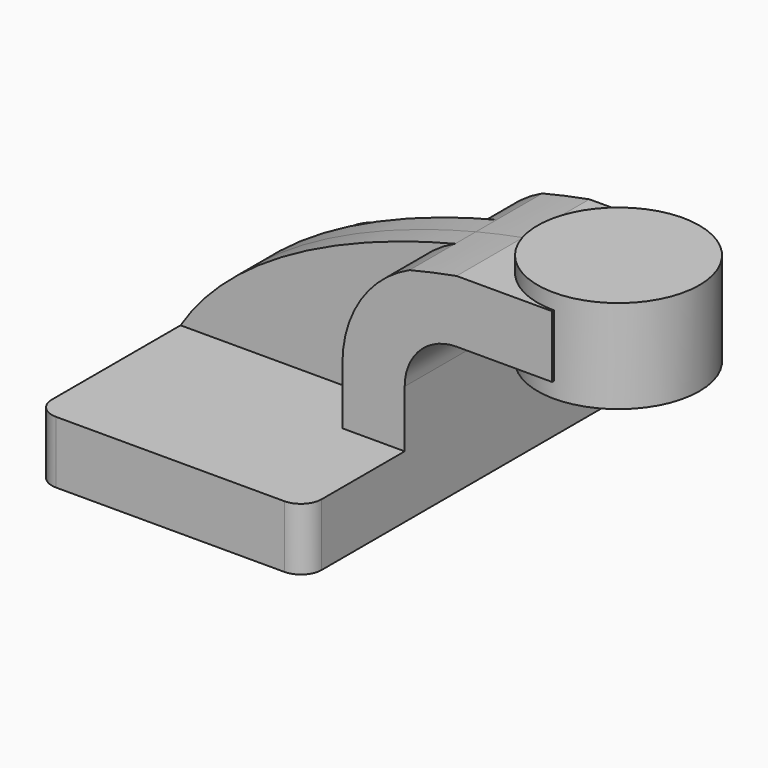
from build123d import *

# Parameters (mm, degrees)
F1_DEPTH = 63.5
F0_W     = 26.0565099983
F0_H     = 19.05
F2_DEPTH = 25.4
F3_DEPTH = 7.9375
F5_R     = 6.35


with BuildPart() as f1:
    # F0 (on Front) → F1 (new body, symmetric)
    with BuildSketch(Plane.XZ):
        Polygon((-41.275, -9.525), (41.275, -9.525), (41.275, 9.525), (22.225, 9.525), (-41.275, 9.525), align=None)
    extrude(amount=F1_DEPTH, both=True)

    # F0 (on Front) → F2 (join, symmetric)
    with BuildSketch(Plane.XZ):
        with Locations((73.3532549992, 52.4002)):
            Rectangle(F0_W, F0_H)
        with BuildLine():
            Line((22.225, 9.525), (41.275, 9.525))
            Line((41.275, 9.525), (41.275, 27.0002))
            ThreePointArc((41.275, 27.0002), (45.9246798487, 38.2255201513), (57.15, 42.8752))
            Line((57.15, 42.8752), (60.325, 42.8752))
            Line((60.325, 42.8752), (60.325, 61.9252))
            Line((60.325, 61.9252), (57.15, 61.9252))
            add(Edge.make_bspline(
                [(42.7559908749, 58.821075637), (48.0699788457, 60.1409782511), (52.9486810439, 61.1641716881), (57.15, 61.9252)],
                knots=[93.4798449965, 93.4798449965, 93.4798449965, 93.4798449965, 111.5045361635, 111.5045361635, 111.5045361635, 111.5045361635], degree=3))
            ThreePointArc((42.7559908749, 58.821075637), (27.8032251031, 45.9348884884), (22.225, 27.0002))
            Line((22.225, 27.0002), (22.225, 9.525))
        make_face()
    extrude(amount=F2_DEPTH, both=True)

    # F0 (on Front) → F3 (join, symmetric)
    with BuildSketch(Plane.XZ):
        with BuildLine():
            add(Edge.make_bspline(
                [(-41.275, 9.525), (-24.0707169508, 37.1499680138), (15.1965299542, 51.9757826645), (42.7559908749, 58.821075637)],
                knots=[0, 0, 0, 0, 93.4798449965, 93.4798449965, 93.4798449965, 93.4798449965], degree=3))
            Line((-41.275, 9.525), (22.225, 9.525))
            Line((22.225, 9.525), (22.225, 27.0002))
            ThreePointArc((22.225, 27.0002), (27.8032251031, 45.9348884884), (42.7559908749, 58.821075637))
        make_face()
    extrude(amount=F3_DEPTH, both=True)

    # F0 (on Front) → F4 (revolve)
    with BuildSketch(Plane.XZ):
        Polygon((86.3815099983, 61.9252), (86.3815099983, 42.8752), (86.3815099983, 38.1), (111.125, 38.1), (111.125, 66.675), (86.3815099983, 66.675), align=None)
    revolve(axis=Axis((86.3815099983, 0, 52.3875), (0, 0, 1)))

    # F5
    f5_edges = [f1.edges().sort_by_distance(p)[0] for p in [
        (41.275, -63.5, 0),
        (-41.275, -63.5, 0),
        (-41.275, 63.5, 0),
        (41.275, 63.5, 0),
    ]]
    fillet(f5_edges, radius=F5_R)


solid = f1.part
